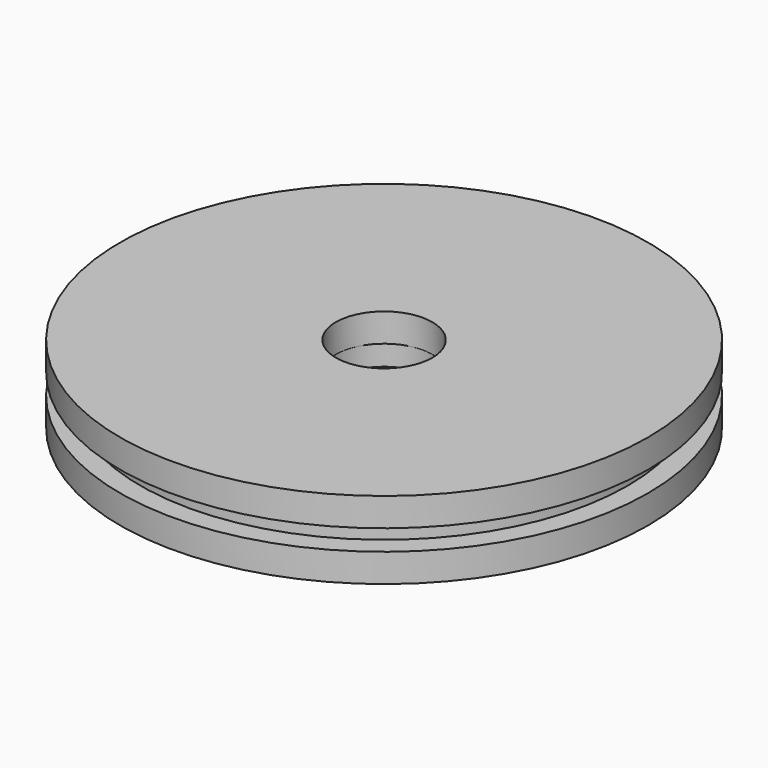
from build123d import *

# Parameters (mm, degrees)
F0_R     = 152.4
F0_R_2   = 30.734
F1_DEPTH = 12.954
F2_R     = 165.1
F3_DEPTH = 17.78
F4_R     = 165.1
F5_DEPTH = 17.78
F6_R     = 30.1625
F7_DEPTH = 62.66538


with BuildPart() as f1:
    # F0 (on Top) → F1 (new body)
    with BuildSketch(Plane.XY):
        Circle(F0_R)
        Circle(F0_R_2, mode=Mode.SUBTRACT)
    extrude(amount=F1_DEPTH)

    # F2 (on face) → F3 (join)
    with BuildSketch(Plane(origin=(0, 0, 0), x_dir=(1, 0, 0), z_dir=(0, 0, -1))):
        Circle(F2_R)
    extrude(amount=F3_DEPTH)

    # F4 (on face) → F5 (join)
    with BuildSketch(Plane.XY.offset(12.954)):
        Circle(F4_R)
    extrude(amount=F5_DEPTH)

    # F6 (on face) → F7 (cut)
    with BuildSketch(Plane(origin=(0, 0, -17.78), x_dir=(1, 0, 0), z_dir=(0, 0, -1))):
        Circle(F6_R)
    extrude(amount=-F7_DEPTH, mode=Mode.SUBTRACT)


solid = f1.part
